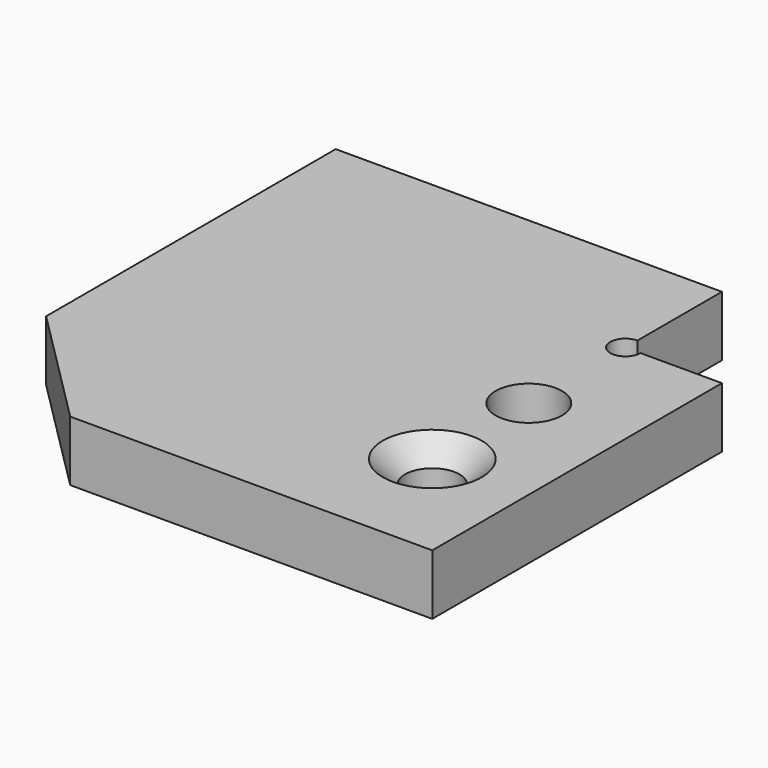
from build123d import *

# Parameters (mm, degrees)
F1_DEPTH       = 10
F3_D           = 9
F3_CSINK_D     = 16.4
F3_CSINK_ANGLE = 90
F4_D           = 6.5
F4_CBORE_D     = 11
F4_CBORE_DEPTH = 6.4


with BuildPart() as f1:
    # F0 (on Top) → F1 (new body)
    with BuildSketch(Plane.XY):
        with BuildLine():
            Line((0, 20), (20, 0))
            Line((20, 0), (80, 0))
            Line((80, 0), (80, 60))
            Line((80, 60), (66.5, 60))
            ThreePointArc((66.5, 60), (62.232233, 58.232233), (64, 62.5))
            Line((64, 62.5), (64, 80))
            Line((64, 80), (0, 80))
            Line((0, 80), (0, 20))
        make_face()
    extrude(amount=F1_DEPTH)

    # F3 (through all)
    with Locations(Plane.XY.offset(10)):
        with Locations((64, 20)):
            CounterSinkHole(F3_D / 2, F3_CSINK_D / 2, counter_sink_angle=F3_CSINK_ANGLE)

    # F4 (through all)
    with Locations(Plane.XY.offset(10)):
        with Locations((64, 40)):
            CounterBoreHole(F4_D / 2, F4_CBORE_D / 2, F4_CBORE_DEPTH)


solid = f1.part
